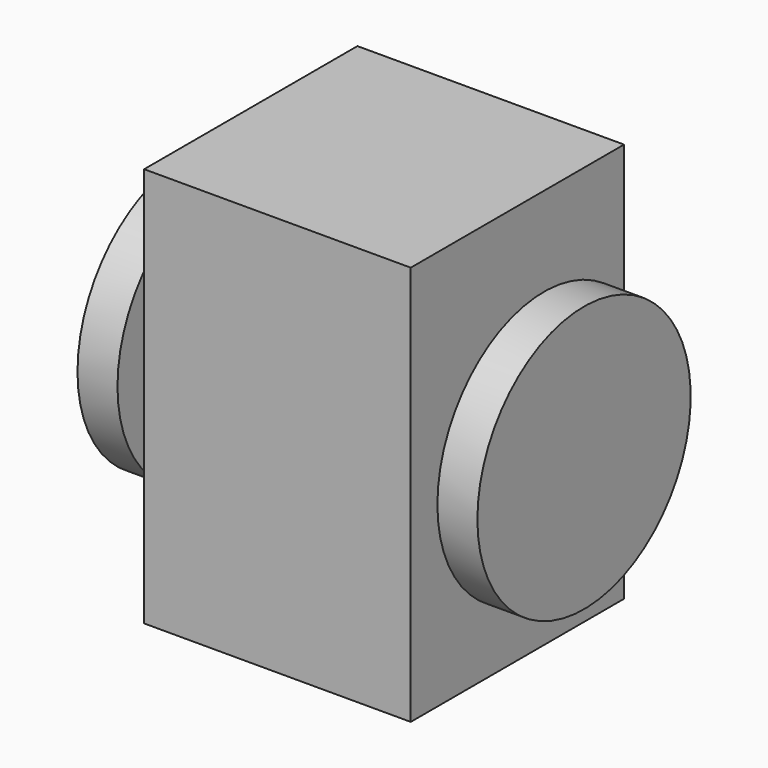
from build123d import *

# Parameters (mm, degrees)
F0_W     = 10
F0_H     = 10
F1_DEPTH = 15
F3_R     = 2.75
F4_DEPTH = 12.5
F5_R     = 1.75
F6_DEPTH = 6
F7_R     = 5
F7_R_2   = 1.75
F8_DEPTH = 1.5


with BuildPart() as f1:
    # F0 (on Top) → F1 (new body)
    with BuildSketch(Plane.XY):
        Rectangle(F0_W, F0_H)
    extrude(amount=F1_DEPTH)

    # F3 (on offset) → F4 (cut, symmetric)
    with BuildSketch(Plane.YZ):
        with Locations((0, 7.5)):
            Circle(F3_R)
    extrude(amount=F4_DEPTH, both=True, mode=Mode.SUBTRACT)


with BuildPart() as f6:
    # F5 (on Right) → F6 (new body, symmetric)
    with BuildSketch(Plane.YZ):
        with Locations((0, 7.5)):
            Circle(F5_R)
    extrude(amount=F6_DEPTH, both=True)

    # F7 (on face) → F8 (join)
    with BuildSketch(Plane(origin=(-6, 0, 0), x_dir=(0, -1, 0), z_dir=(-1, 0, 0))):
        with Locations((0, 7.5)):
            Circle(F7_R)
        with Locations((0, 7.5)):
            Circle(F7_R_2, mode=Mode.SUBTRACT)
        with Locations((0, 7.5)):
            Circle(F7_R_2)
    extrude(amount=F8_DEPTH)

    # F9: F6 across plane


with BuildPart() as f6_1:
    add(f6.part)
    add(f6.part.mirror(Plane.YZ))


solid = Compound([f1.part, f6_1.part])
